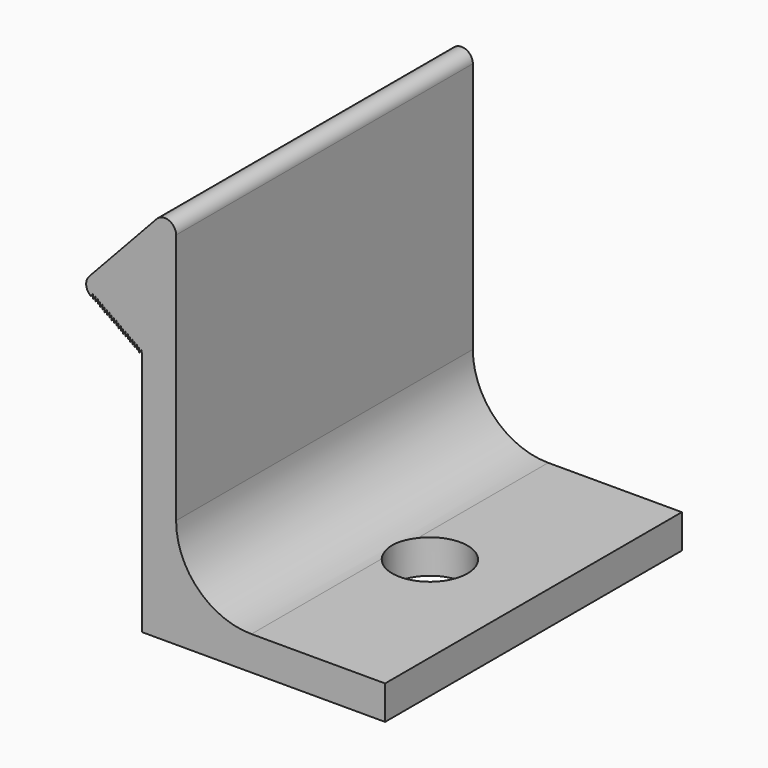
from build123d import *

# Parameters (mm, degrees)
F1_DEPTH = 25.019
F3_D     = 5.08


with BuildPart() as f1:
    # F0 (on Front) → F1 (new body)
    with BuildSketch(Plane.XZ):
        with BuildLine():
            Line((0, 7.527124), (0, -8.855876))
            Line((0, -8.855876), (16.383, -8.855876))
            Line((16.383, -8.855876), (16.383, -6.569876))
            Line((16.383, -6.569876), (7.366, -6.569876))
            ThreePointArc((7.366, -6.569876), (3.773898, -5.081979), (2.286, -1.489876))
            Line((2.286, -1.489876), (2.286, 15.474845))
            ThreePointArc((2.286, 15.474845), (1.803912, 16.182621), (0.968765, 15.993188))
            Line((0.968765, 15.993188), (-3.576384, 11.1123))
            ThreePointArc((-3.576384, 11.1123), (-3.776344, 10.515934), (-3.458887, 9.972927))
            Line((-3.458887, 9.972927), (-3.30363, 10.192494))
            Line((-3.30363, 10.192494), (-3.30363, 9.863143))
            Line((-3.30363, 9.863143), (-3.148372, 10.08271))
            Line((-3.148372, 10.08271), (-3.148372, 9.753359))
            Line((-3.148372, 9.753359), (-2.993115, 9.972927))
            Line((-2.993115, 9.972927), (-2.993115, 9.643575))
            Line((-2.993115, 9.643575), (-2.837857, 9.863143))
            Line((-2.837857, 9.863143), (-2.837857, 9.533792))
            Line((-2.837857, 9.533792), (-2.682599, 9.753359))
            Line((-2.682599, 9.753359), (-2.682599, 9.424008))
            Line((-2.682599, 9.424008), (-2.527342, 9.643575))
            Line((-2.527342, 9.643575), (-2.527342, 9.314224))
            Line((-2.527342, 9.314224), (-2.372084, 9.533792))
            Line((-2.372084, 9.533792), (-2.372084, 9.204441))
            Line((-2.372084, 9.204441), (-2.216827, 9.424008))
            Line((-2.216827, 9.424008), (-2.216827, 9.094657))
            Line((-2.216827, 9.094657), (-2.061569, 9.314224))
            Line((-2.061569, 9.314224), (-2.061569, 8.984873))
            Line((-2.061569, 8.984873), (-1.906311, 9.204441))
            Line((-1.906311, 9.204441), (-1.906311, 8.87509))
            Line((-1.906311, 8.87509), (-1.751054, 9.094657))
            Line((-1.751054, 9.094657), (-1.751054, 8.765306))
            Line((-1.751054, 8.765306), (-1.595796, 8.984873))
            Line((-1.595796, 8.984873), (-1.595796, 8.655522))
            Line((-1.595796, 8.655522), (-1.440539, 8.87509))
            Line((-1.440539, 8.87509), (-1.440539, 8.545738))
            Line((-1.440539, 8.545738), (-1.285281, 8.765306))
            Line((-1.285281, 8.765306), (-1.285281, 8.435955))
            Line((-1.285281, 8.435955), (-1.130023, 8.655522))
            Line((-1.130023, 8.655522), (-1.130023, 8.326171))
            Line((-1.130023, 8.326171), (-0.974766, 8.545738))
            Line((-0.974766, 8.545738), (-0.974766, 8.216387))
            Line((-0.974766, 8.216387), (-0.819508, 8.435955))
            Line((-0.819508, 8.435955), (-0.819508, 8.106604))
            Line((-0.819508, 8.106604), (-0.664251, 8.326171))
            Line((-0.664251, 8.326171), (-0.664251, 7.99682))
            Line((-0.664251, 7.99682), (-0.520062, 8.22381))
            Line((-0.520062, 8.22381), (-0.520062, 7.894459))
            Line((-0.520062, 7.894459), (-0.364804, 8.114026))
            Line((-0.364804, 8.114026), (-0.364804, 7.784675))
            Line((-0.364804, 7.784675), (-0.209547, 8.004242))
            Line((-0.209547, 8.004242), (-0.209547, 7.674891))
            Line((-0.209547, 7.674891), (-0.054289, 7.894459))
            Line((-0.054289, 7.894459), (0, 7.527124))
        make_face()
    extrude(amount=F1_DEPTH)

    # F3 (through all)
    with Locations(Plane(origin=(0, 0, -8.855876), x_dir=(1, 0, 0), z_dir=(0, 0, -1))):
        with Locations((9.398, 12.5095)):
            Hole(F3_D / 2)


solid = f1.part
